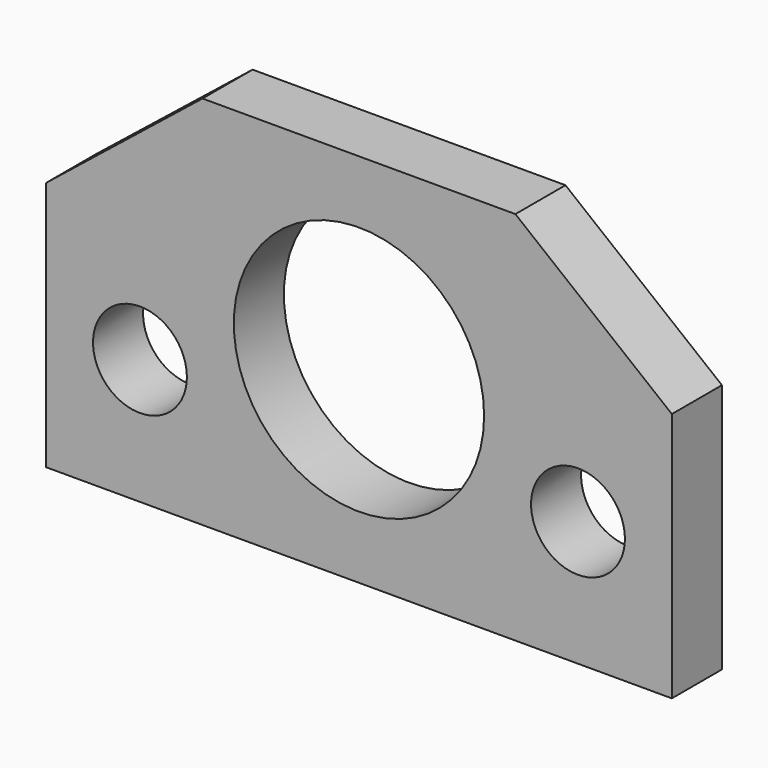
from build123d import *

# Parameters (mm, degrees)
F0_R     = 37.5
F0_R_2   = 100
F1_DEPTH = 50


with BuildPart() as f1:
    # F0 (on Front) → F1 (new body)
    with BuildSketch(Plane.XZ):
        Polygon((250, 50), (125, 150), (-125, 150), (-250, 50), (-250, 0), (-250, -150), (0, -150), (175, -150), (250, -150), (250, -50), align=None)
        with Locations((-175, -50)):
            Circle(F0_R, mode=Mode.SUBTRACT)
        with Locations((175, -50)):
            Circle(F0_R, mode=Mode.SUBTRACT)
        Circle(F0_R_2, mode=Mode.SUBTRACT)
    extrude(amount=F1_DEPTH)


solid = f1.part
